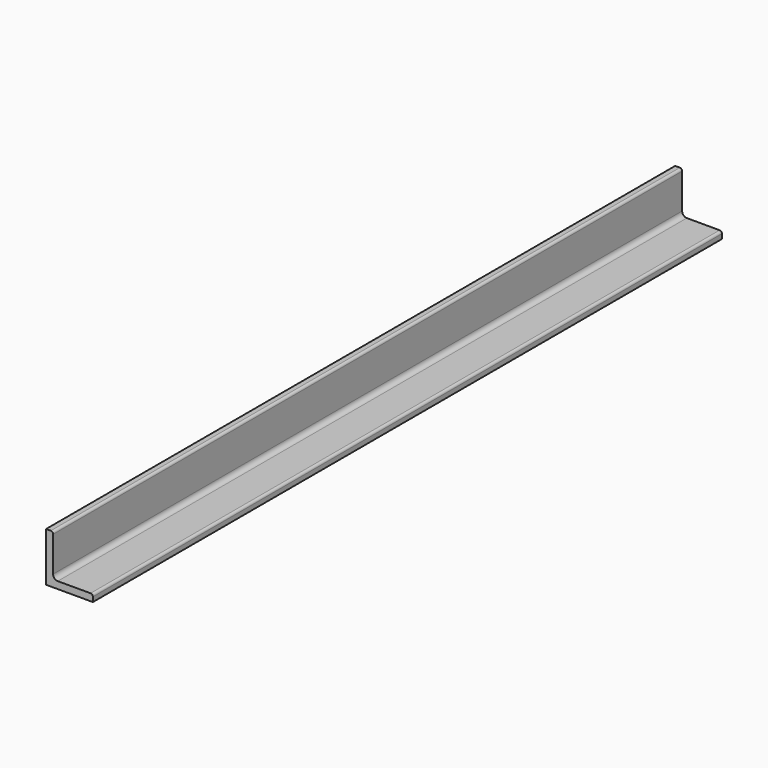
from build123d import *

# Parameters (mm, degrees)
F1_DEPTH = 2133.6


with BuildPart() as f1:
    # F0 (on Front) → F1 (new body)
    with BuildSketch(Plane.XZ):
        with BuildLine():
            Line((-44.45, -38.1), (-44.45, 0))
            Line((-44.45, 0), (-63.5, 0))
            Line((-63.5, 0), (-63.5, -44.45))
            Line((-63.5, -44.45), (-63.5, -69.85))
            Line((-63.5, -69.85), (-44.45, -69.85))
            Line((-44.45, -69.85), (63.5, -69.85))
            Line((63.5, -69.85), (63.5, -57.15))
            ThreePointArc((63.5, -57.15), (61.640128, -52.659872), (57.15, -50.8))
            Line((57.15, -50.8), (-31.75, -50.8))
            ThreePointArc((-31.75, -50.8), (-40.730256, -47.080256), (-44.45, -38.1))
        make_face()
        with BuildLine():
            Line((-63.5, 0), (-44.45, 0))
            Line((-44.45, 0), (-44.45, 57.15))
            ThreePointArc((-44.45, 57.15), (-46.309872, 61.640128), (-50.8, 63.5))
            Line((-50.8, 63.5), (-63.5, 63.5))
            Line((-63.5, 63.5), (-63.5, 0))
        make_face()
    extrude(amount=F1_DEPTH)


solid = f1.part
